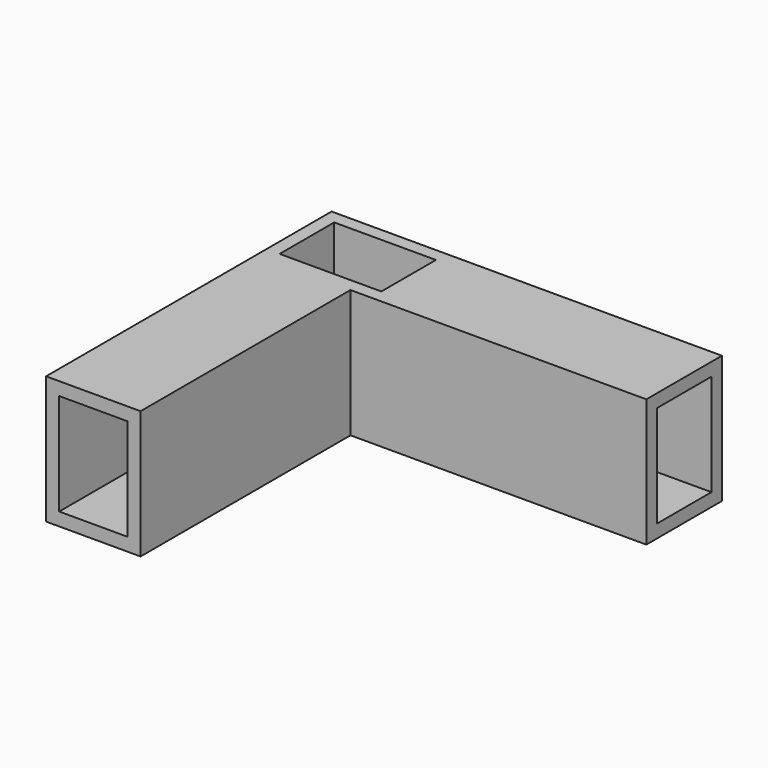
from build123d import *

# Parameters (mm, degrees)
SKETCH004_W     = 15.5
SKETCH004_H     = 10.4
PAD003_DEPTH    = 19.5
SKETCH005_W     = 10.4
SKETCH005_H     = 15.5
POCKET_DEPTH    = 45
SKETCH006_W     = 10.4
SKETCH006_H     = 15.5
POCKET001_DEPTH = 45


with BuildPart() as part:
    # Sketch004 → Pad003 (new body)
    with BuildSketch(Plane.XY):
        Polygon((-9.75, 7.2), (-9.75, -47.2), (4.65, -47.2), (4.65, -7.2), (49.75, -7.2), (49.75, 7.2), align=None)
        Rectangle(SKETCH004_W, SKETCH004_H, mode=Mode.SUBTRACT)
    extrude(amount=PAD003_DEPTH)

    # Sketch005 (on Face2 of Pad003) → Pocket (cut)
    with BuildSketch(Plane.XZ.offset(47.2)):
        with Locations((-2.55, 9.75)):
            Rectangle(SKETCH005_W, SKETCH005_H)
    extrude(amount=-POCKET_DEPTH, mode=Mode.SUBTRACT)

    # Sketch006 (on Face6 of Pocket) → Pocket001 (cut)
    with BuildSketch(Plane.YZ.offset(49.75)):
        with Locations((0, 9.75)):
            Rectangle(SKETCH006_W, SKETCH006_H)
    extrude(amount=-POCKET001_DEPTH, mode=Mode.SUBTRACT)


solid = part.part
